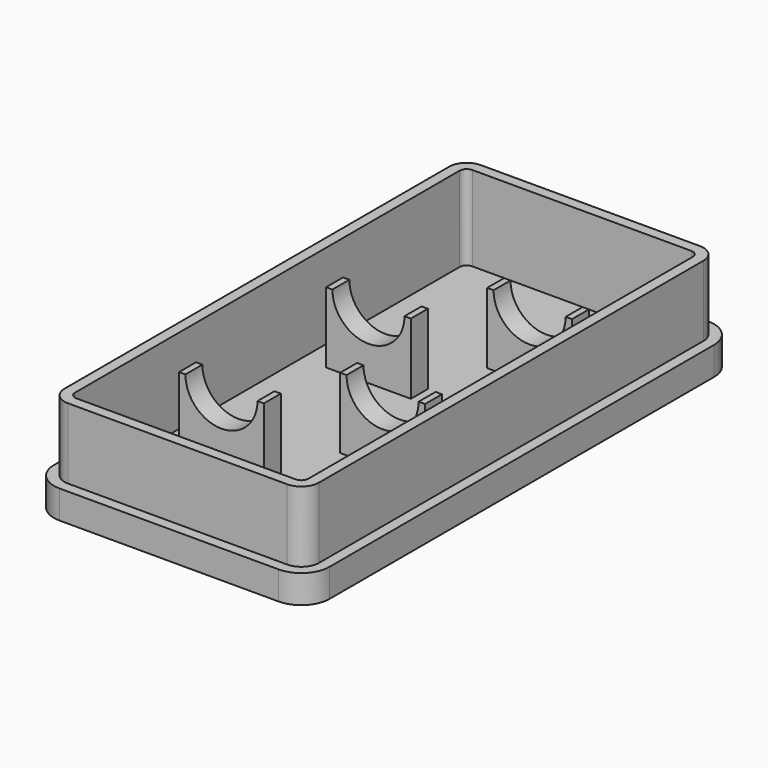
from build123d import *

# Parameters (mm, degrees)
F1_DEPTH      = 2
F3_DEPTH      = 2
F5_W          = 12
F5_H          = 3
F6_DEPTH      = 8
F6_DEPTH_BACK = 2
F8_DEPTH      = 50
F10_DEPTH     = 50
F11_DEPTH     = 10


with BuildPart() as f1:
    # F0 (on Top) → F1 (new body)
    with BuildSketch(Plane.XY):
        with BuildLine():
            Line((-15.5, -38), (15.5, -38))
            ThreePointArc((15.5, -38), (18.3284271247, -36.8284271247), (19.5, -34))
            Line((19.5, -34), (19.5, 34))
            ThreePointArc((19.5, 34), (18.3284271247, 36.8284271247), (15.5, 38))
            Line((15.5, 38), (-15.5, 38))
            ThreePointArc((-15.5, 38), (-18.3284271247, 36.8284271247), (-19.5, 34))
            Line((-19.5, 34), (-19.5, -34))
            ThreePointArc((-19.5, -34), (-18.3284271247, -36.8284271247), (-15.5, -38))
        make_face()
    extrude(amount=F1_DEPTH)

    # F2 (on face) → F3 (join)
    with BuildSketch(Plane.XY.offset(2)):
        with BuildLine():
            Line((-19.5, 34), (-19.5, -34))
            ThreePointArc((-19.5, -34), (-18.3284271247, -36.8284271247), (-15.5, -38))
            Line((-15.5, -38), (15.5, -38))
            ThreePointArc((15.5, -38), (18.3284271247, -36.8284271247), (19.5, -34))
            Line((19.5, -34), (19.5, 34))
            ThreePointArc((19.5, 34), (18.3284271247, 36.8284271247), (15.5, 38))
            Line((15.5, 38), (-15.5, 38))
            ThreePointArc((-15.5, 38), (-18.3284271247, 36.8284271247), (-19.5, 34))
        make_face()
        with BuildLine():
            ThreePointArc((-15.5, -34.9999999106), (-16.207106718, -34.707106718), (-16.4999999106, -34))
            Line((-16.4999999106, -34), (-16.4999999106, 34))
            ThreePointArc((-16.4999999106, 34), (-16.207106718, 34.707106718), (-15.5, 34.9999999106))
            Line((-15.5, 34.9999999106), (15.5, 34.9999999106))
            ThreePointArc((15.5, 34.9999999106), (16.207106718, 34.707106718), (16.4999999106, 34))
            Line((16.4999999106, 34), (16.4999999106, -34))
            ThreePointArc((16.4999999106, -34), (16.207106718, -34.707106718), (15.5, -34.9999999106))
            Line((15.5, -34.9999999106), (-15.5, -34.9999999106))
        make_face(mode=Mode.SUBTRACT)
    extrude(amount=F3_DEPTH)

    # F5 (on face) → F6 (join, two sides)
    with BuildSketch(Plane.XY.offset(4)) as f6_sk:
        with Locations((-7, -18.4999999106)):
            Rectangle(F5_W, F5_H)
        with Locations((-7, 7.5000000894)):
            Rectangle(F5_W, F5_H)
        with Locations((7, 18.4999999106)):
            Rectangle(F5_W, F5_H)
        with Locations((7, -7.5000000894)):
            Rectangle(F5_W, F5_H)
    extrude(amount=F6_DEPTH)
    extrude(f6_sk.sketch, amount=-F6_DEPTH_BACK)

    # F7 (on face) → F8 (cut)
    with BuildSketch(Plane.XZ.offset(19.9999999106)):
        with BuildLine():
            Line((-1.9, 12), (-12.1, 12))
            ThreePointArc((-12.1, 12), (-7, 6.9), (-1.9, 12))
        make_face()
    extrude(amount=-F8_DEPTH, mode=Mode.SUBTRACT)

    # F9 (on face) → F10 (cut)
    with BuildSketch(Plane.XZ.offset(9.0000000894)):
        with BuildLine():
            Line((12.1, 12), (1.9, 12))
            ThreePointArc((1.9, 12), (7, 6.9), (12.1, 12))
        make_face()
    extrude(amount=-F10_DEPTH, mode=Mode.SUBTRACT)

    # F4 (on face) → F11 (join)
    with BuildSketch(Plane.XY.offset(4)):
        with BuildLine():
            Line((-18, 34), (-18, -34))
            ThreePointArc((-18, -34), (-17.267766953, -35.767766953), (-15.5, -36.5))
            Line((-15.5, -36.5), (15.5, -36.5))
            ThreePointArc((15.5, -36.5), (17.267766953, -35.767766953), (18, -34))
            Line((18, -34), (18, 34))
            ThreePointArc((18, 34), (17.267766953, 35.767766953), (15.5, 36.5))
            Line((15.5, 36.5), (-15.5, 36.5))
            ThreePointArc((-15.5, 36.5), (-17.267766953, 35.767766953), (-18, 34))
        make_face()
        with BuildLine():
            ThreePointArc((-15.5, -34.9999999106), (-16.207106718, -34.707106718), (-16.4999999106, -34))
            Line((-16.4999999106, -34), (-16.4999999106, 34))
            ThreePointArc((-16.4999999106, 34), (-16.207106718, 34.707106718), (-15.5, 34.9999999106))
            Line((-15.5, 34.9999999106), (15.5, 34.9999999106))
            ThreePointArc((15.5, 34.9999999106), (16.207106718, 34.707106718), (16.4999999106, 34))
            Line((16.4999999106, 34), (16.4999999106, -34))
            ThreePointArc((16.4999999106, -34), (16.207106718, -34.707106718), (15.5, -34.9999999106))
            Line((15.5, -34.9999999106), (-15.5, -34.9999999106))
        make_face(mode=Mode.SUBTRACT)
    extrude(amount=F11_DEPTH)


solid = f1.part
